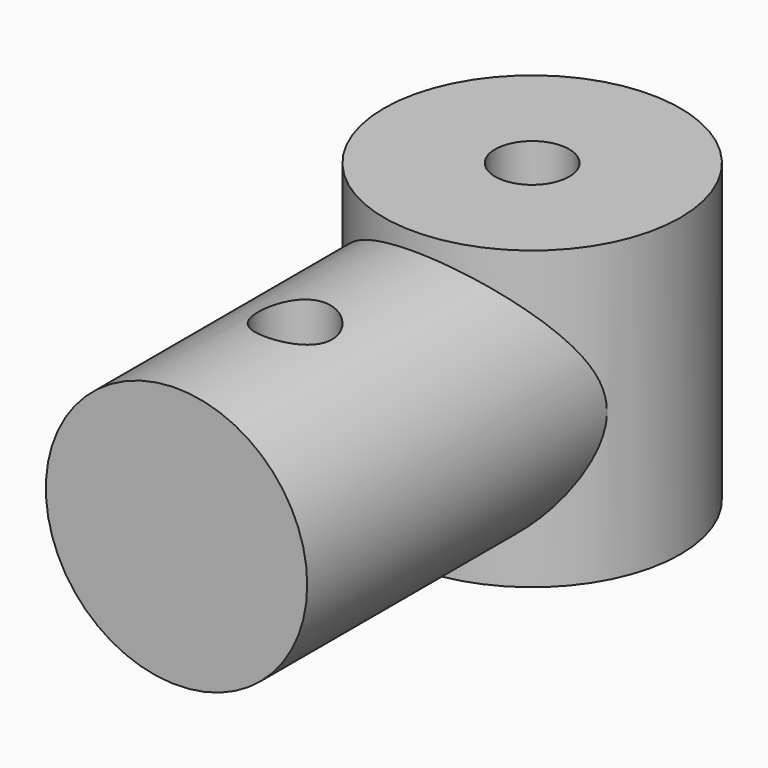
from build123d import *

# Parameters (mm, degrees)
F0_R          = 12.7
F1_DEPTH      = 25.4
F2_R          = 11.2
F3_DEPTH      = 38.1
F4_R          = 3.175
F5_DEPTH      = 25.4
F5_DEPTH_BACK = 25.4
F7_R          = 3.175
F8_DEPTH      = 12.7


with BuildPart() as f1:
    # F0 (on Top) → F1 (new body)
    with BuildSketch(Plane.XY):
        Circle(F0_R)
    extrude(amount=F1_DEPTH)

    # F2 (on Front) → F3 (join)
    with BuildSketch(Plane.XZ):
        with Locations((0, 12.7)):
            Circle(F2_R)
    extrude(amount=F3_DEPTH)

    # F4 (on Top) → F5 (cut, two sides)
    with BuildSketch(Plane.XY) as f5_sk:
        Circle(F4_R)
    extrude(amount=-F5_DEPTH, mode=Mode.SUBTRACT)
    extrude(f5_sk.sketch, amount=F5_DEPTH_BACK, mode=Mode.SUBTRACT)

    # F7 (on offset) → F8 (cut, symmetric)
    with BuildSketch(Plane.XY.offset(12.7)):
        with Locations((0, -25.4)):
            Circle(F7_R)
    extrude(amount=F8_DEPTH, both=True, mode=Mode.SUBTRACT)


solid = f1.part
